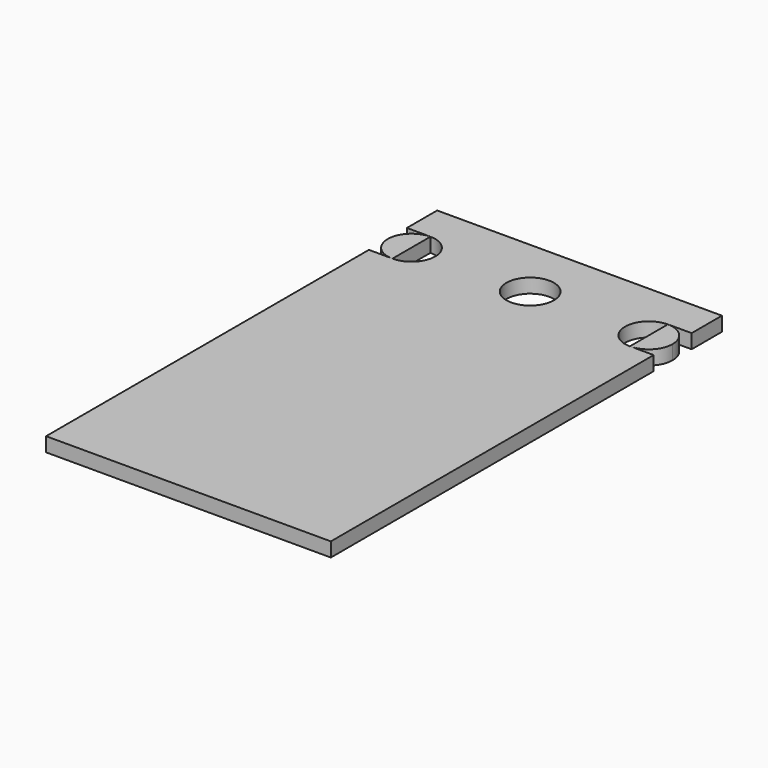
from build123d import *

# Parameters (mm, degrees)
F0_W     = 30
F0_H     = 51.5
F2_DEPTH = 1.5
F1_R     = 2.5
F3_DEPTH = 1.501


with BuildPart() as f2:
    # F0 (on Top) → F2 (new body)
    with BuildSketch(Plane.XY):
        with Locations((-3e-06, 25.75)):
            Rectangle(F0_W, F0_H)
    extrude(amount=F2_DEPTH)

    # F1 (on Top) → F3 (cut, through all)
    with BuildSketch(Plane.XY):
        with Locations((0, 45)):
            Circle(F1_R)
        with BuildLine():
            ThreePointArc((-12.74979, 42.51251), (-10.822873, 43.146022), (-10.000003, 45))
            ThreePointArc((-10.000003, 45), (-10.736448, 46.771969), (-12.511902, 47.499972))
            Line((-12.511902, 47.499972), (-12.511902, 42.51251))
            Line((-12.511902, 42.51251), (-12.74979, 42.51251))
        make_face()
        with BuildLine():
            ThreePointArc((-12.74979, 42.51251), (-14.997164, 45.119107), (-12.511902, 47.499972))
            Line((-12.511902, 47.499972), (-12.511902, 47.51251))
            Line((-12.511902, 47.51251), (-15.011902, 47.51251))
            Line((-15.011902, 47.51251), (-15.011902, 42.51251))
            Line((-15.011902, 42.51251), (-12.74979, 42.51251))
        make_face()
        with BuildLine():
            ThreePointArc((12.499997, 47.5), (14.267764, 46.767767), (14.999997, 45))
            ThreePointArc((14.999997, 45), (14.353975, 43.322869), (12.749784, 42.51251))
            Line((12.749784, 42.51251), (15.08512, 42.51251))
            Line((15.08512, 42.51251), (15.08512, 47.51251))
            Line((15.08512, 47.51251), (12.499997, 47.51251))
            Line((12.499997, 47.51251), (12.499997, 47.5))
        make_face()
        with BuildLine():
            Line((12.499997, 42.51251), (12.499997, 47.5))
            ThreePointArc((12.499997, 47.5), (10.003126, 44.87495), (12.749784, 42.51251))
            Line((12.749784, 42.51251), (12.499997, 42.51251))
        make_face()
    extrude(amount=F3_DEPTH, mode=Mode.SUBTRACT)


solid = f2.part
